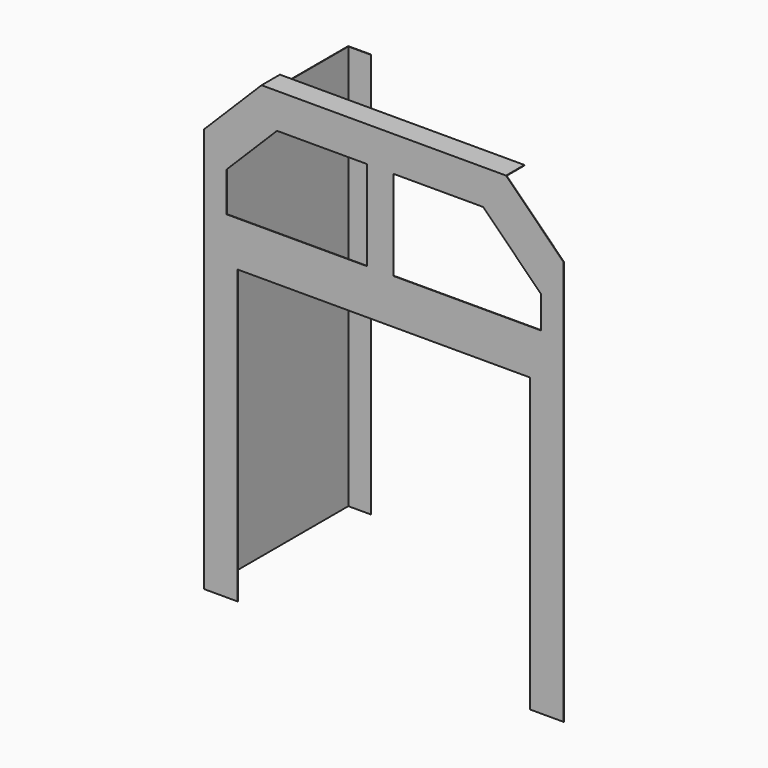
from build123d import *

# Parameters (mm, degrees)
F1_DEPTH = 0.11
F2_W     = 0.11
F2_H     = 90
F3_DEPTH = 40
F4_W     = 0.11
F4_H     = 90
F5_DEPTH = 5
F6_W     = 54.38837
F6_H     = 0.11
F7_DEPTH = 5


with BuildPart() as f1:
    # F0 (on Front) → F1 (new body)
    with BuildSketch(Plane.XZ):
        Polygon((12.805815, 12.805815), (0, 0), (0, -90), (7.5, -90), (7.5, -25), (72.5, -25), (72.5, -90), (80, -90), (80, 0), (67.194185, 12.805815), align=None)
        Polygon((16.2438, 5), (36.2438, 5), (36.2438, -15), (5, -15), (5, -6.2438), align=None, mode=Mode.SUBTRACT)
        Polygon((42.101238, -15), (42.101238, 5), (62.101238, 5), (75, -7.898762), (75, -15), align=None, mode=Mode.SUBTRACT)
    extrude(amount=F1_DEPTH)

    # F2 (on face) → F3 (join)
    with BuildSketch(Plane(origin=(0, 0, 0), x_dir=(-1, 0, 0), z_dir=(0, 1, 0))):
        with Locations((-0.055, -45)):
            Rectangle(F2_W, F2_H)
    extrude(amount=F3_DEPTH)

    # F4 (on face) → F5 (join)
    with BuildSketch(Plane.YZ.offset(0.11)):
        with Locations((39.945, -45)):
            Rectangle(F4_W, F4_H)
    extrude(amount=F5_DEPTH)

    # F6 (on face) → F7 (join)
    with BuildSketch(Plane(origin=(0, 0, 0), x_dir=(-1, 0, 0), z_dir=(0, 1, 0))):
        with Locations((-40, 12.750815)):
            Rectangle(F6_W, F6_H)
    extrude(amount=F7_DEPTH)


solid = f1.part
